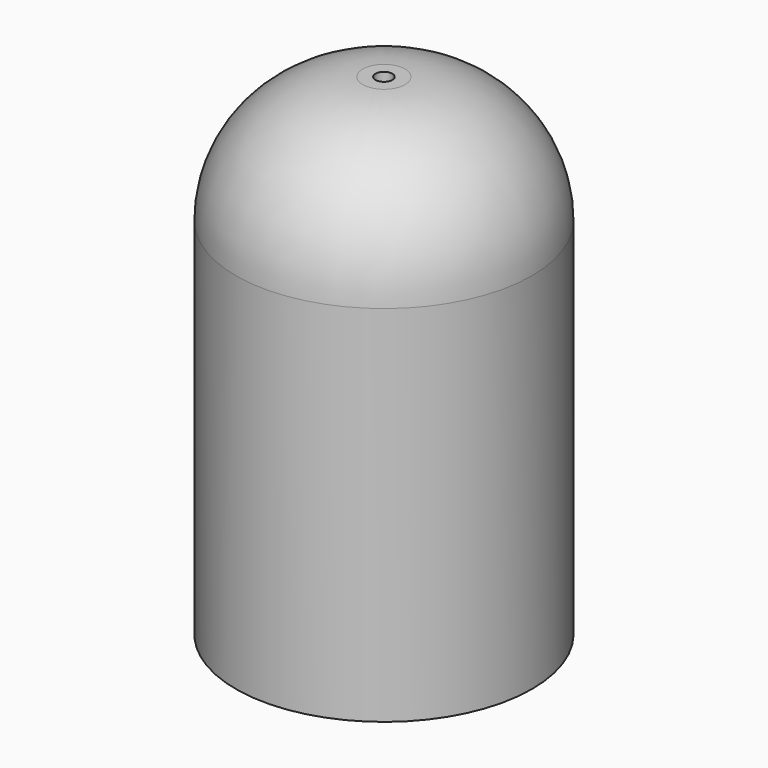
from build123d import *

# Parameters (mm, degrees)
SKETCH_R        = 17.5
PAD_DEPTH       = 58
FILLET_R        = 15
SKETCH001_R     = 14.25
POCKET_DEPTH    = 32
SKETCH002_R     = 1
POCKET001_DEPTH = 58.001
FILLET001_R     = 2


with BuildPart() as part:
    # Sketch → Pad (new body)
    with BuildSketch(Plane.XY):
        Circle(SKETCH_R)
    extrude(amount=PAD_DEPTH)

    # Fillet
    fillet_edges = [part.edges().sort_by_distance(p)[0] for p in [
        (-17.5, 0, 58),
    ]]
    fillet(fillet_edges, radius=FILLET_R)

    # Sketch001 (on Face3 of Fillet) → Pocket (cut)
    with BuildSketch(Plane(origin=(0, 0, 0), x_dir=(1, 0, 0), z_dir=(0, 0, -1))):
        Circle(SKETCH001_R)
    extrude(amount=-POCKET_DEPTH, mode=Mode.SUBTRACT)

    # Sketch002 (on Face4 of Fillet) → Pocket001 (cut, through all)
    with BuildSketch(Plane.XY.offset(58)):
        Circle(SKETCH002_R)
    extrude(amount=-POCKET001_DEPTH, mode=Mode.SUBTRACT)

    # Fillet001
    fillet001_edges = [part.edges().sort_by_distance(p)[0] for p in [
        (-14.25, 0, 0),
    ]]
    fillet(fillet001_edges, radius=FILLET001_R)


solid = part.part
